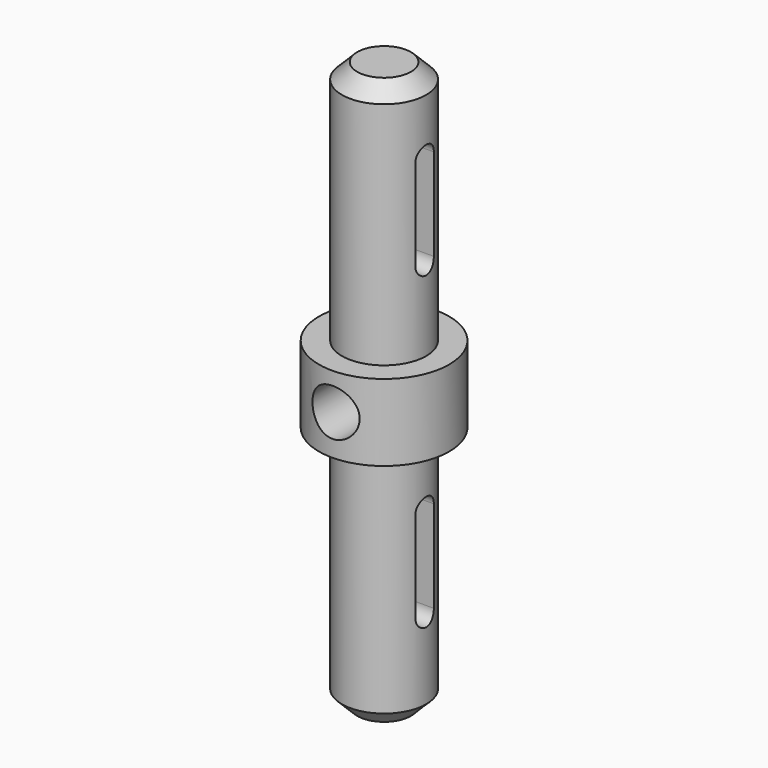
from build123d import *

# Parameters (mm, degrees)
F0_R          = 8.5
F1_DEPTH      = 10
F2_R          = 5.5
F3_DEPTH      = 32
F4_R          = 5.5
F5_DEPTH      = 32
F6_SIZE       = 2
F7_SIZE       = 2
F8_R          = 3.0547772324
F9_DEPTH      = 8.501
F9_DEPTH_BACK = 8.501
F11_DEPTH     = 43.1654968794
F13_DEPTH     = 43.1654968794


with BuildPart() as f1:
    # F0 (on Top) → F1 (new body)
    with BuildSketch(Plane.XY):
        with Locations((-34.6644967794, 0)):
            Circle(F0_R)
    extrude(amount=F1_DEPTH)

    # F2 (on face) → F3 (join)
    with BuildSketch(Plane.XY.offset(10)):
        with Locations((-34.6644967794, 0)):
            Circle(F2_R)
    extrude(amount=F3_DEPTH)

    # F4 (on face) → F5 (join)
    with BuildSketch(Plane(origin=(0, 0, 0), x_dir=(1, 0, 0), z_dir=(0, 0, -1))):
        with Locations((-34.6644967794, 0)):
            Circle(F4_R)
    extrude(amount=F5_DEPTH)

    # F6
    f6_edges = [f1.edges().sort_by_distance(p)[0] for p in [
        (-40.164497, 0, 42),
    ]]
    chamfer(f6_edges, length=F6_SIZE)

    # F7
    f7_edges = [f1.edges().sort_by_distance(p)[0] for p in [
        (-40.164497, 0, -32),
    ]]
    chamfer(f7_edges, length=F7_SIZE)

    # F8 (on Front) → F9 (cut, two sides)
    with BuildSketch(Plane.XZ) as f9_sk:
        with Locations((-34.5804058015, 5.2290405147)):
            Circle(F8_R)
    extrude(amount=-F9_DEPTH, mode=Mode.SUBTRACT)
    extrude(f9_sk.sketch, amount=F9_DEPTH_BACK, mode=Mode.SUBTRACT)

    # F10 (on Right) → F11 (cut, through all)
    with BuildSketch(Plane.YZ):
        with BuildLine():
            Line((1.5, 20.7730699331), (1.5, 32.7730699331))
            ThreePointArc((1.5, 32.7730699331), (-0.0205803002, 34.2729287435), (-1.4994352683, 32.731913207))
            Line((-1.4994352683, 32.731913207), (-1.4994352683, 20.8142266592))
            Line((-1.4994352683, 20.8142266592), (-1.4994352683, 20.731913207))
            ThreePointArc((-1.4994352683, 20.731913207), (0.0205803002, 19.2732111226), (1.5, 20.7730699331))
        make_face()
        with BuildLine():
            Line((-1.4994352683, 20.731913207), (-1.4994352683, 20.8142266592))
            ThreePointArc((-1.4994352683, 20.8142266592), (-1.5, 20.7730699331), (-1.4994352683, 20.731913207))
        make_face()
    extrude(amount=-F11_DEPTH, mode=Mode.SUBTRACT)

    # F12 (on Right) → F13 (cut, through all)
    with BuildSketch(Plane.YZ):
        with BuildLine():
            Line((-1.4940902409, -19.792623133), (-1.4940902409, -19.5265828961))
            ThreePointArc((-1.4940902409, -19.5265828961), (-1.5, -19.6596030146), (-1.4940902409, -19.792623133))
        make_face()
        with BuildLine():
            Line((-1.4940902409, -7.792623133), (-1.4940902409, -19.5265828961))
            Line((-1.4940902409, -19.5265828961), (-1.4940902409, -19.792623133))
            ThreePointArc((-1.4940902409, -19.792623133), (0.0669880568, -21.1581064681), (1.4999997728, -19.6587774142))
            Line((1.4999997728, -19.6587774142), (1.5, -7.6596030146))
            ThreePointArc((1.5, -7.659603043), (-0.0665756517, -6.161081182), (-1.4940902409, -7.792623133))
        make_face()
    extrude(amount=-F13_DEPTH, mode=Mode.SUBTRACT)


solid = f1.part
